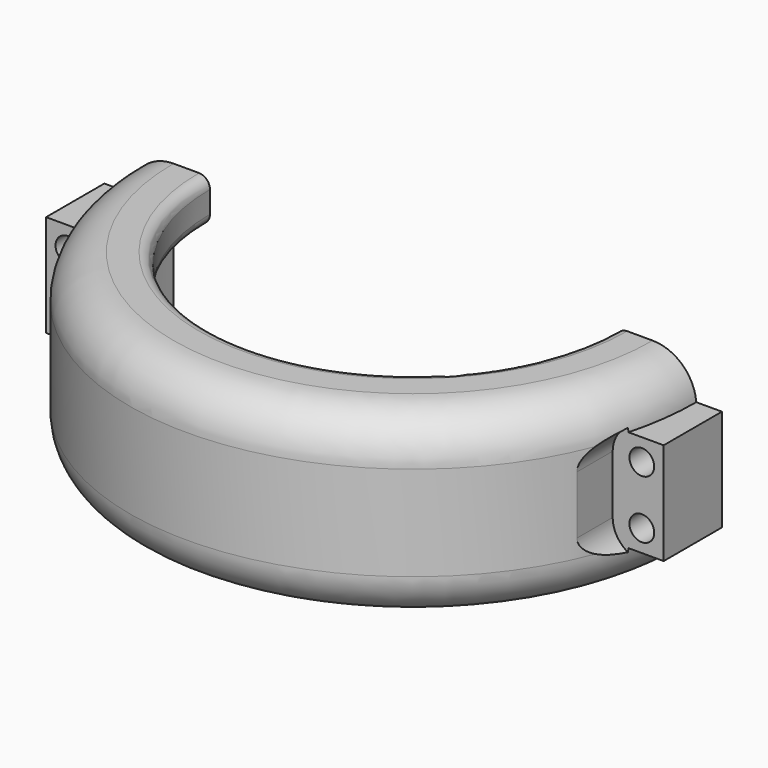
from build123d import *

# Parameters (mm, degrees)
REVOLUTION007_ANGLE     = 180
SKETCH064_W             = 14
SKETCH064_H             = 6
PAD026_DEPTH            = 10
SKETCH063_R             = 1.7
POCKET007_DEPTH         = 38.901
POCKET008_DEPTH         = 28.901
BODY015_PLACEMENT_ANGLE = 180


with BuildPart() as part:
    # Sketch062 → Revolution007 (revolve, symmetric)
    with BuildSketch(Plane.YZ) as revolution007_sk:
        with BuildLine():
            Line((32.9, 0), (32.9, 6.5))
            Line((32.9, 6.5), (29.4, 6.5))
            ThreePointArc((27.9, 8), (28.33934, 6.93934), (29.4, 6.5))
            Line((27.9, 8), (27.9, 11))
            ThreePointArc((29.4, 12.5), (28.33934, 12.06066), (27.9, 11))
            Line((29.4, 12.5), (32.9, 12.5))
            ThreePointArc((38.9, 6.5), (37.142641, 10.742641), (32.9, 12.5))
            Line((38.9, 6.5), (38.9, 0))
            Line((38.9, 0), (38.9, -6.5))
            ThreePointArc((32.9, -12.5), (37.142641, -10.742641), (38.9, -6.5))
            Line((32.9, -12.5), (29.4, -12.5))
            ThreePointArc((27.9, -11), (28.33934, -12.06066), (29.4, -12.5))
            Line((27.9, -11), (27.9, -8))
            ThreePointArc((29.4, -6.5), (28.33934, -6.93934), (27.9, -8))
            Line((29.4, -6.5), (32.9, -6.5))
            Line((32.9, -6.5), (32.9, 0))
        make_face()
    revolve(axis=Axis((0, 0, 0), (0, 0, 1)), revolution_arc=REVOLUTION007_ANGLE / 2)
    revolve(revolution007_sk.sketch, axis=Axis((0, 0, 0), (0, 0, -1)), revolution_arc=REVOLUTION007_ANGLE / 2)

    # Sketch064 (on Face18 of Revolution007) → Pad026 (new body)
    with BuildSketch(Plane(origin=(0, 0, 0), x_dir=(0, 0, -1), z_dir=(0, -1, 0))):
        with Locations((0, 39.4)):
            Rectangle(SKETCH064_W, SKETCH064_H)
        with Locations((0, -39.4)):
            Rectangle(SKETCH064_W, SKETCH064_H)
    extrude(amount=-PAD026_DEPTH)

    # Sketch063 (on Face18 of Revolution007) → Pocket007 (cut, through all)
    with BuildSketch(Plane(origin=(0, 0, 0), x_dir=(0, 0, -1), z_dir=(0, -1, 0))):
        with Locations((4, 39.4)):
            Circle(SKETCH063_R)
        with Locations((-4, 39.4)):
            Circle(SKETCH063_R)
        with Locations((-4, -39.4)):
            Circle(SKETCH063_R)
        with Locations((4, -39.4)):
            Circle(SKETCH063_R)
    extrude(amount=-POCKET007_DEPTH, mode=Mode.SUBTRACT)

    # Sketch065 (on Face22 of Pocket007) → Pocket008 (cut, through all)
    with BuildSketch(Plane.ZX.offset(10)):
        with BuildLine():
            Line((-4, 43.4), (4.000001, 43.4))
            ThreePointArc((4.000001, 35.4), (8, 39.4), (4.000001, 43.4))
            Line((-4, 35.4), (4.000001, 35.4))
            ThreePointArc((-4, 43.4), (-8, 39.4), (-4, 35.4))
        make_face()
        with BuildLine():
            Line((-4, -35.4), (4, -35.4))
            ThreePointArc((4, -43.4), (8, -39.4), (4, -35.4))
            Line((-4, -43.4), (4, -43.4))
            ThreePointArc((-4, -35.4), (-8, -39.4), (-4, -43.4))
        make_face()
    extrude(amount=POCKET008_DEPTH, mode=Mode.SUBTRACT)


with BuildPart() as part_1:
    # Body015 placement: moved
    add(part.part.moved(Location((0, 0, -0.5))).rotate(Axis((0, 0, -0.5), (1, 0, 0)), BODY015_PLACEMENT_ANGLE))


solid = part_1.part
